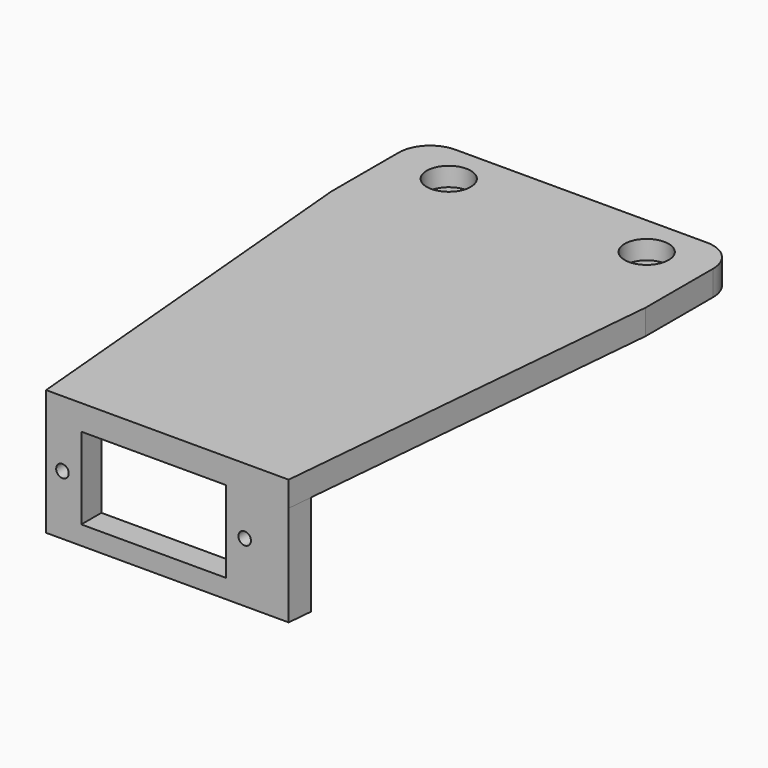
from build123d import *

# Parameters (mm, degrees)
F0_R     = 2
F1_DEPTH = 4
F2_R     = 3.5
F3_DEPTH = 3
F5_DEPTH = 16
F6_W     = 6
F6_H     = 13
F6_W_2   = 17
F6_R     = 1
F7_DEPTH = 25
F8_R     = 5


with BuildPart() as f1:
    # F0 (on Top) → F1 (new body)
    with BuildSketch(Plane.XY):
        Polygon((0, 6.640602), (-25.017791, 6.640602), (-25.017791, -11.776076), (-19.303476, -75.663209), (0, -75.663209), (19.303476, -75.663209), (25.017791, -11.776076), (25.017791, 6.640602), align=None)
        with Locations((-15.75, 0)):
            Circle(F0_R, mode=Mode.SUBTRACT)
        with Locations((15.75, 0)):
            Circle(F0_R, mode=Mode.SUBTRACT)
    extrude(amount=F1_DEPTH)

    # F2 (on face) → F3 (cut)
    with BuildSketch(Plane.XY.offset(4)):
        with Locations((-15.75, 0)):
            Circle(F2_R)
        with Locations((15.75, 0)):
            Circle(F2_R)
    extrude(amount=-F3_DEPTH, mode=Mode.SUBTRACT)

    # F4 (on face) → F5 (join)
    with BuildSketch(Plane(origin=(0, 0, 0), x_dir=(1, 0, 0), z_dir=(0, 0, -1))):
        Polygon((19.303476, 75.663209), (-19.303476, 75.663209), (-19.661252, 71.663209), (19.661252, 71.663209), align=None)
    extrude(amount=F5_DEPTH)

    # F6 (on face) → F7 (cut)
    with BuildSketch(Plane.XZ.offset(75.663209)):
        with Locations((6.303476, -6.5)):
            Rectangle(F6_W, F6_H)
        with Locations((-5.196524, -6.5)):
            Rectangle(F6_W_2, F6_H)
        with Locations((-16.696524, -6.5)):
            Circle(F6_R)
        with Locations((12.303476, -6.5)):
            Circle(F6_R)
    extrude(amount=-F7_DEPTH, mode=Mode.SUBTRACT)

    # F8
    f8_edges = [f1.edges().sort_by_distance(p)[0] for p in [
        (25.017791, 6.640602, 2),
        (-25.017791, 6.640602, 2),
    ]]
    fillet(f8_edges, radius=F8_R)


solid = f1.part
